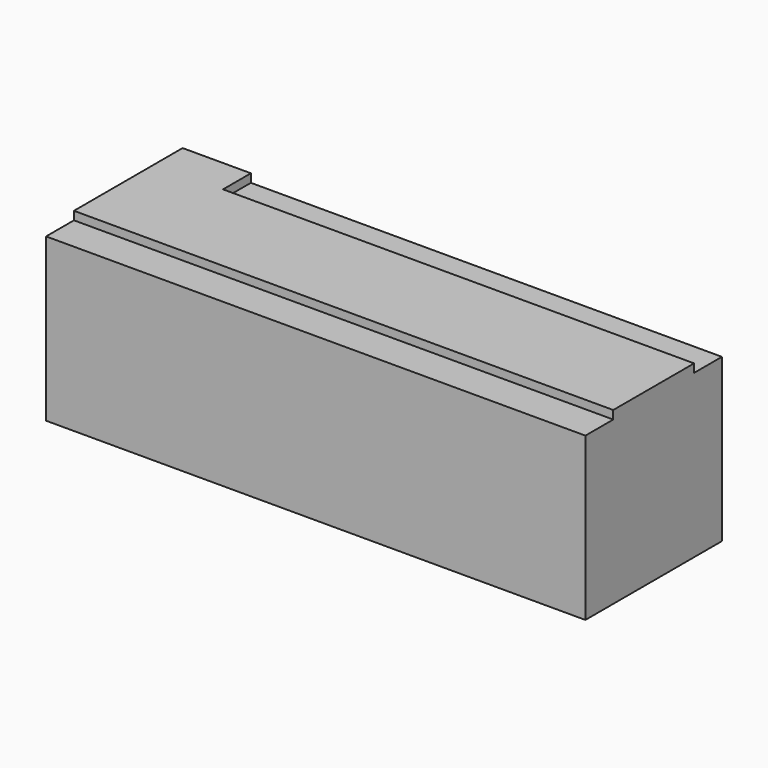
from build123d import *

# Parameters (mm, degrees)
F0_W     = 200.66
F0_H     = 63.5
F1_DEPTH = 63.5
F2_W     = 200.66
F2_H     = 12.954
F2_W_2   = 175.26
F3_DEPTH = 3.1242


with BuildPart() as f1:
    # F0 (on Top) → F1 (new body)
    with BuildSketch(Plane.XY):
        with Locations((-100.33, 31.75)):
            Rectangle(F0_W, F0_H)
    extrude(amount=-F1_DEPTH)

    # F2 (on face) → F3 (cut)
    with BuildSketch(Plane.XY):
        with Locations((-100.33, 6.477)):
            Rectangle(F2_W, F2_H)
        with Locations((-87.63, 57.023)):
            Rectangle(F2_W_2, F2_H)
    extrude(amount=-F3_DEPTH, mode=Mode.SUBTRACT)


solid = f1.part
